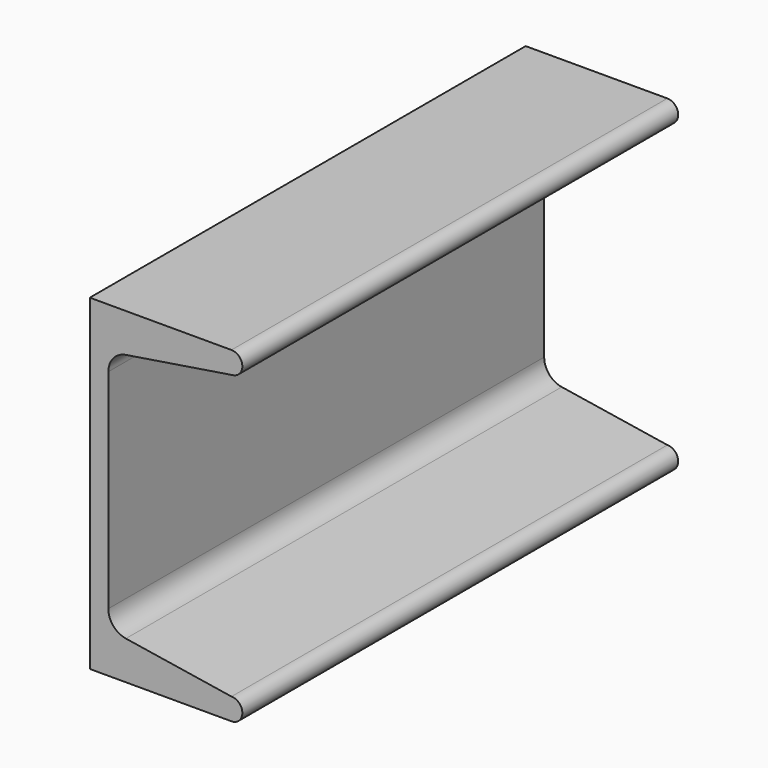
from build123d import *

# Parameters (mm, degrees)
F1_DEPTH = 63.5


with BuildPart() as f1:
    # F0 (on Front) → F1 (new body, symmetric)
    with BuildSketch(Plane.XZ):
        with BuildLine():
            Line((0, 76.2), (0, 0))
            Line((0, 0), (33.02, 0))
            ThreePointArc((33.02, 0), (35.56, 2.54), (33.02, 5.08))
            Line((33.02, 5.08), (8.410474, 8.977766))
            ThreePointArc((8.410474, 8.977766), (5.480366, 10.618705), (4.318, 13.769437))
            Line((4.318, 13.769437), (4.318, 62.398901))
            ThreePointArc((4.318, 62.398901), (5.480366, 65.549634), (8.410474, 67.190573))
            Line((8.410474, 67.190573), (33.417344, 71.151272))
            ThreePointArc((33.417344, 71.151272), (35.55217, 73.859286), (33.02, 76.2))
            Line((33.02, 76.2), (0, 76.2))
        make_face()
    extrude(amount=F1_DEPTH, both=True)


solid = f1.part
